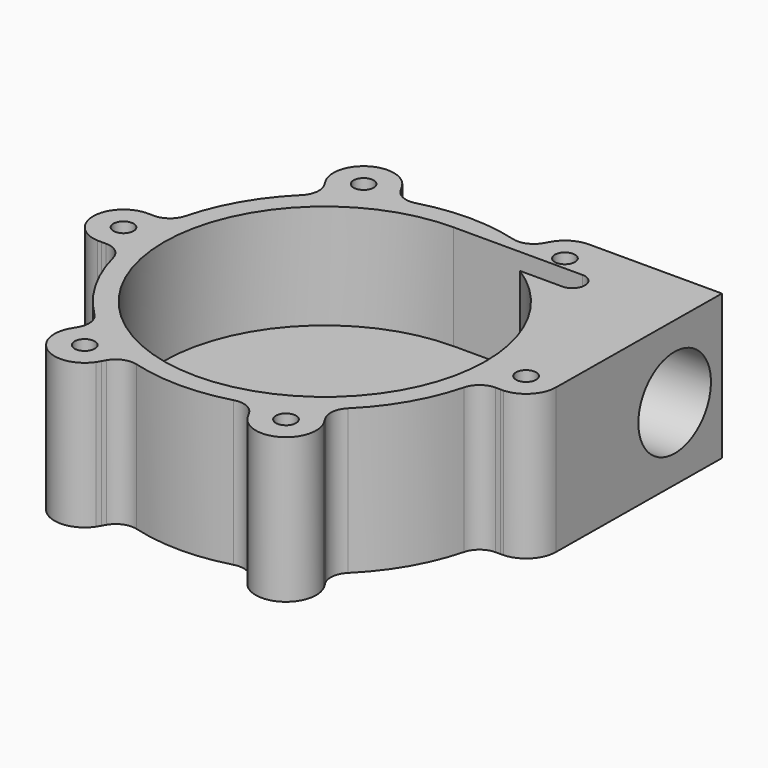
from build123d import *

# Parameters (mm, degrees)
F0_R     = 1.25
F1_DEPTH = 18
F3_D     = 11.13
F3_DEPTH = 12.5
F3_TIP   = 3.3437893449
F4_R     = 1.5625
F5_DEPTH = 5


with BuildPart() as f1:
    # F0 (on Top) → F1 (new body)
    with BuildSketch(Plane.XY):
        with BuildLine():
            ThreePointArc((-15.3434944638, 19.0939042011), (-15.0320560296, 17.5061736151), (-15.7581247751, 16.060246062))
            ThreePointArc((-15.7581247751, 16.060246062), (-19.4845549428, 11.2517606925), (-21.7866280292, 5.620750761))
            ThreePointArc((-21.7866280292, 5.620750761), (-22.6760479277, 4.2691537219), (-24.2068768675, 3.7452786709))
            Line((-24.2068768675, 3.7452786709), (-24.8095572627, 3.7451611218))
            Line((-24.8095572627, 3.7451611218), (-25.1919036634, 3.7450865475))
            ThreePointArc((-25.1919036634, 3.7450865475), (-28.7498129399, 0.0374555534), (-25.2666745248, -3.7405059061))
            Line((-25.2666745248, -3.7405059061), (-24.7361366604, -3.7407052642))
            Line((-24.7361366604, -3.7407052642), (-24.2075533275, -3.7409038879))
            ThreePointArc((-24.2075533275, -3.7409038879), (-22.6768190885, -4.2650555852), (-21.7876434683, -5.6168133403))
            ThreePointArc((-21.7876434683, -5.6168133403), (-19.4865880684, -11.2482392157), (-15.761026962, -16.0573979556))
            ThreePointArc((-15.761026962, -16.0573979556), (-15.0352195396, -17.5034567019), (-15.346944907, -19.0911309781))
            Line((-15.346944907, -19.0911309781), (-15.6481833041, -19.6131262852))
            Line((-15.6481833041, -19.6131262852), (-15.8392919213, -19.9442852685))
            ThreePointArc((-15.8392919213, -19.9442852685), (-14.4073439307, -24.8793405833), (-9.3939641247, -23.7518349607))
            Line((-9.3939641247, -23.7518349607), (-9.1285225433, -23.2924753715))
            Line((-9.1285225433, -23.2924753715), (-8.8640588637, -22.834808089))
            ThreePointArc((-8.8640588637, -22.834808089), (-7.6447630589, -21.7712292003), (-6.0295186932, -21.6770594023))
            ThreePointArc((-6.0295186932, -21.6770594023), (-0.0020331256, -22.4999999081), (6.0256010672, -21.6781487166))
            ThreePointArc((6.0256010672, -21.6781487166), (7.640828388, -21.7726104237), (8.8599319605, -22.836409649))
            Line((8.8599319605, -22.836409649), (9.1613739586, -23.358287407))
            Line((9.1613739586, -23.358287407), (9.3526117422, -23.689371816))
            ThreePointArc((9.3526117422, -23.689371816), (14.3424690092, -24.9167961367), (15.8727104001, -20.0113290546))
            Line((15.8727104001, -20.0113290546), (15.6076141171, -19.5517701073))
            Line((15.6076141171, -19.5517701073), (15.3434944638, -19.0939042011))
            ThreePointArc((15.3434944638, -19.0939042011), (15.0320560296, -17.5061736151), (15.7581247751, -16.060246062))
            ThreePointArc((15.7581247751, -16.060246062), (19.4845549428, -11.2517606925), (21.7866280292, -5.620750761))
            ThreePointArc((21.7866280292, -5.620750761), (22.6760479277, -4.2691537219), (24.2068768675, -3.7452786709))
            Line((24.2068768675, -3.7452786709), (24.8095572627, -3.7451611218))
            Line((24.8095572627, -3.7451611218), (25.1919036634, -3.7450865475))
            ThreePointArc((25.1919036634, -3.7450865475), (27.7059534295, -2.5962118983), (28.7498196477, -0.0367778781))
            Line((28.7498196477, -0.0367778781), (28.9992988817, 25.3997910768))
            Line((28.9992988817, 25.3997910768), (12.5795568592, 25.3997910768))
            ThreePointArc((12.5795568592, 25.3997910768), (10.7769696358, 24.9813506545), (9.3939641247, 23.7518349607))
            Line((9.3939641247, 23.7518349607), (9.1285225433, 23.2924753715))
            Line((9.1285225433, 23.2924753715), (8.8640588637, 22.834808089))
            ThreePointArc((8.8640588637, 22.834808089), (7.6447630589, 21.7712292003), (6.0295186932, 21.6770594023))
            ThreePointArc((6.0295186932, 21.6770594023), (0.0020331256, 22.4999999081), (-6.0256010672, 21.6781487166))
            ThreePointArc((-6.0256010672, 21.6781487166), (-7.640828388, 21.7726104237), (-8.8599319605, 22.836409649))
            Line((-8.8599319605, 22.836409649), (-9.1613739586, 23.358287407))
            Line((-9.1613739586, 23.358287407), (-9.3526117422, 23.689371816))
            ThreePointArc((-9.3526117422, 23.689371816), (-14.3424690092, 24.9167961367), (-15.8727104001, 20.0113290546))
            Line((-15.8727104001, 20.0113290546), (-15.6076141171, 19.5517701073))
            Line((-15.6076141171, 19.5517701073), (-15.3434944638, 19.0939042011))
        make_face()
        with Locations((-12.5, -21.650635024)):
            Circle(F0_R, mode=Mode.SUBTRACT)
        with Locations((12.4999999694, -21.6506350416)):
            Circle(F0_R, mode=Mode.SUBTRACT)
        with Locations((-24.9999999694, 5.3e-08)):
            Circle(F0_R, mode=Mode.SUBTRACT)
        with BuildLine():
            ThreePointArc((10.7347275233, 16.875), (17.5313226892, 9.6256285388), (20, 0))
            ThreePointArc((20, 0), (-14.1421356237, -14.1421356237), (0, 20))
            Line((0, 20), (13.682886083, 20))
            Line((13.682886083, 20), (16, 20))
            ThreePointArc((16, 20), (17.5625, 18.4375), (16, 16.875))
            Line((16, 16.875), (13.7064243678, 16.875))
            Line((13.7064243678, 16.875), (10.7347275233, 16.875))
        make_face(mode=Mode.SUBTRACT)
        with Locations((-12.4999999694, 21.6506351123)):
            Circle(F0_R, mode=Mode.SUBTRACT)
        with Locations((24.9999999694, 1.77e-08)):
            Circle(F0_R, mode=Mode.SUBTRACT)
        with Locations((12.5, 21.6506350946)):
            Circle(F0_R, mode=Mode.SUBTRACT)
    extrude(amount=F1_DEPTH)

    # F3
    with Locations(Plane(origin=(28.7474150086, -0.2819516693, 0), x_dir=(0.0098074247, 0.9999519061, 0), z_dir=(0.9999519061, -0.0098074247, 0))):
        with Locations((18.4329779418, 9)):
            Hole(F3_D / 2, depth=F3_DEPTH)
            with Locations((0, 0, -(F3_DEPTH + F3_TIP / 2))):  # 118° drill point
                Cone(0, F3_D / 2, F3_TIP, mode=Mode.SUBTRACT)

    # F4 (on face) → F5 (join)
    with BuildSketch(Plane(origin=(0, 0, 0), x_dir=(1, 0, 0), z_dir=(0, 0, -1))):
        with BuildLine():
            ThreePointArc((10.7347275233, -16.875), (-5.5901699437, 19.2028643697), (0, -20))
            Line((0, -20), (16, -20))
            ThreePointArc((16, -20), (17.5625, -18.4375), (16, -16.875))
            Line((16, -16.875), (10.7347275233, -16.875))
        make_face()
        Circle(F4_R, mode=Mode.SUBTRACT)
    extrude(amount=-F5_DEPTH)


solid = f1.part
